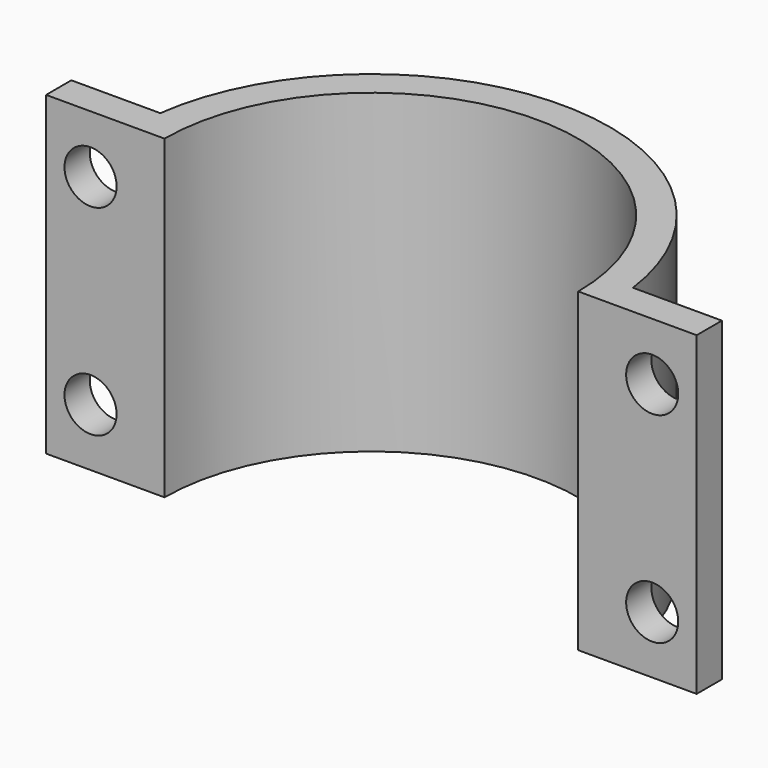
from build123d import *

# Parameters (mm, degrees)
F1_DEPTH = 20
F3_R     = 1.65
F4_DEPTH = 25
F2_R     = 1.65
F5_DEPTH = 25


with BuildPart() as f1:
    # F0 (on Top) → F1 (new body)
    with BuildSketch(Plane.XY):
        with BuildLine():
            ThreePointArc((-13.1, 0), (0, 13.1), (13.1, 0))
            Line((13.1, 0), (20.6, 0))
            Line((20.6, 0), (20.6, 2))
            Line((20.6, 2), (14.966964, 2))
            ThreePointArc((14.966964, 2), (0, 15.1), (-14.966964, 2))
            Line((-14.966964, 2), (-20.6, 2))
            Line((-20.6, 2), (-20.6, 0))
            Line((-20.6, 0), (-13.1, 0))
        make_face()
    extrude(amount=F1_DEPTH)

    # F3 (on face) → F4 (cut)
    with BuildSketch(Plane(origin=(0, 2, 0), x_dir=(-1, 0, 0), z_dir=(0, 1, 0))):
        with Locations((17.783482, 16.35)):
            Circle(F3_R)
        with Locations((17.783482, 3.65)):
            Circle(F3_R)
    extrude(amount=-F4_DEPTH, mode=Mode.SUBTRACT)

    # F2 (on face) → F5 (cut)
    with BuildSketch(Plane(origin=(0, 2, 0), x_dir=(-1, 0, 0), z_dir=(0, 1, 0))):
        with Locations((-17.783482, 16.35)):
            Circle(F2_R)
        with Locations((-17.783482, 3.65)):
            Circle(F2_R)
    extrude(amount=-F5_DEPTH, mode=Mode.SUBTRACT)


solid = f1.part
